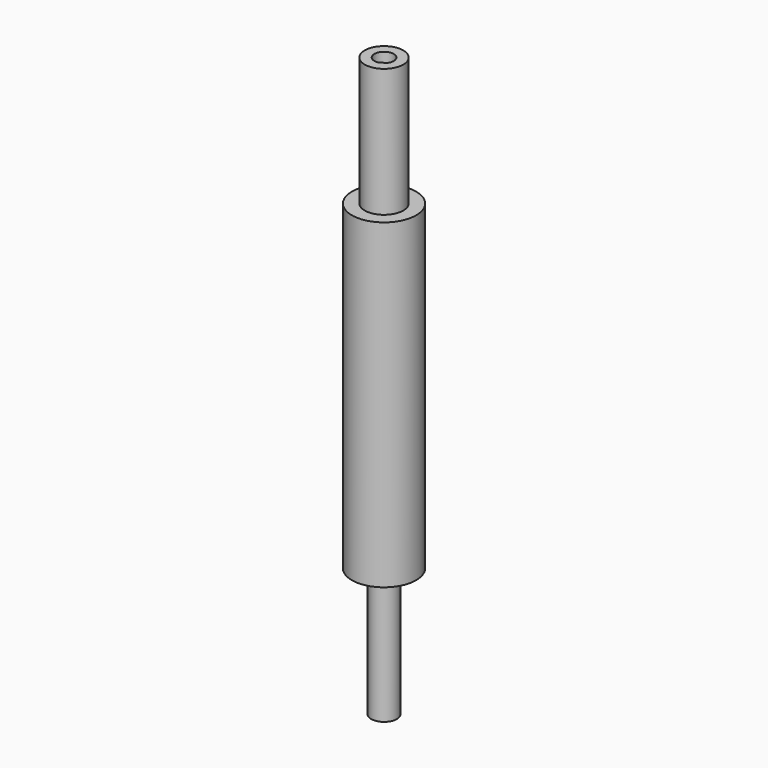
from build123d import *

# Parameters (mm, degrees)
SKETCH_R          = 10
PAD_DEPTH         = 50
PAD_DEPTH_BACK    = 50
SKETCH001_R       = 6
PAD001_DEPTH      = 90
POCKET_DEPTH      = 80
SKETCH003_R       = 4
PAD002_DEPTH      = 1
PAD002_DEPTH_BACK = 90


with BuildPart() as part:
    # Sketch → Pad (new body, two sides)
    with BuildSketch(Plane.XY) as pad_sk:
        Circle(SKETCH_R)
    extrude(amount=PAD_DEPTH)
    extrude(pad_sk.sketch, amount=-PAD_DEPTH_BACK)

    # Sketch001 → Pad001 (join)
    with BuildSketch(Plane.XY):
        Circle(SKETCH001_R)
    extrude(amount=PAD001_DEPTH)

    # Sketch002 (on Face7 of Pad001) → Pocket (cut)
    with BuildSketch(Plane.XY.offset(70)):
        with BuildLine():
            ThreePointArc((2.549937, -1.580449), (-1.766635, 2.424665), (0.722998, -2.911576))
            Line((0.722998, -2.911576), (2.549937, -1.580449))
        make_face()
    extrude(amount=POCKET_DEPTH, mode=Mode.SUBTRACT)

    # Sketch003 → Pad002 (join, two sides)
    with BuildSketch(Plane.XY) as pad002_sk:
        Circle(SKETCH003_R)
    extrude(amount=PAD002_DEPTH)
    extrude(pad002_sk.sketch, amount=-PAD002_DEPTH_BACK)


solid = part.part
